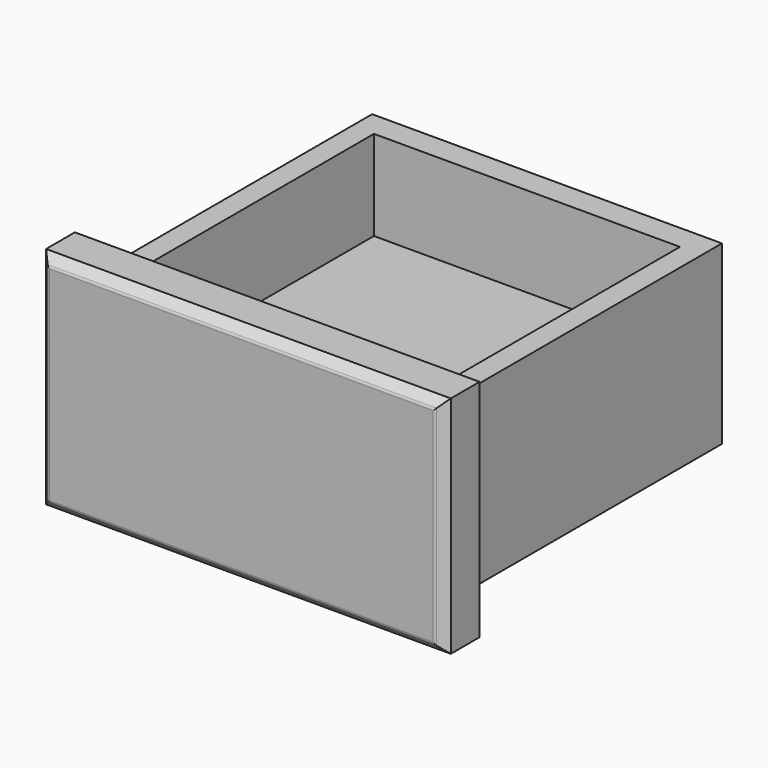
from build123d import *

# Parameters (mm, degrees)
F0_W     = 57.15
F0_H     = 31.75
F1_DEPTH = 3.175
F2_W     = 49.392026
F2_H     = 24.930672
F3_DEPTH = 50.8
F4_W     = 43.211122
F4_H     = 41.259654
F5_DEPTH = 12.7
F6_SIZE  = 1.27
F7_R     = 0.508


with BuildPart() as f1:
    # F0 (on Front) → F1 (new body, symmetric)
    with BuildSketch(Plane.XZ):
        Rectangle(F0_W, F0_H)
    extrude(amount=F1_DEPTH, both=True)

    # F2 (on Front) → F3 (join)
    with BuildSketch(Plane.XZ):
        Rectangle(F2_W, F2_H)
    extrude(amount=-F3_DEPTH)

    # F4 (on face) → F5 (cut)
    with BuildSketch(Plane.XY.offset(12.465336)):
        with Locations((0, 26.623629)):
            Rectangle(F4_W, F4_H)
    extrude(amount=-F5_DEPTH, mode=Mode.SUBTRACT)

    # F6
    f6_edges = [f1.edges().sort_by_distance(p)[0] for p in [
        (0, -3.175, -15.875),
        (-28.575, -3.175, 0),
        (28.575, -3.175, 0),
        (0, -3.175, 15.875),
    ]]
    chamfer(f6_edges, length=F6_SIZE)

    # F7
    f7_edges = [f1.edges().sort_by_distance(p)[0] for p in [
        (0, -3.175, -14.605),
        (-27.305, -3.175, 0),
        (27.305, -3.175, 0),
        (0, -3.175, 14.605),
    ]]
    fillet(f7_edges, radius=F7_R)


solid = f1.part
